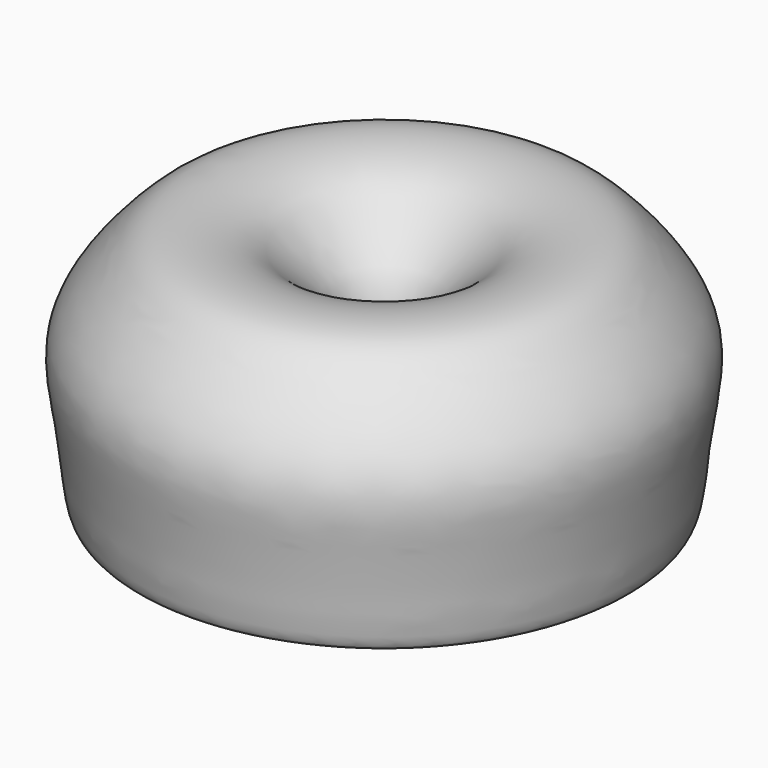
from build123d import *


with BuildPart() as f2:
    # F1 (on Front) → F2 (revolve)
    with BuildSketch(Plane.XZ):
        with BuildLine():
            add(Edge.make_bspline(
                [(-13.0814844742, 0), (-13.6835852244, 3.6079190474), (-12.6090819688, 8.9287363322), (-15.2886573343, 28.5777612437), (-21.4874861751, 40.5932954658), (-32.2631134505, 49.7973738872), (-45.8505551499, 64.1301383239), (-77.0771298512, 67.1452082651), (-91.6988326301, 55.3417403427), (-116.9272740617, 25.6791089861), (-107.5653253757, -5.7051915219), (-105.8478493439, -48.6112628707), (-93.9363940411, -27.667483999), (-78.4468297582, -24.6070328735), (-78.2238864072, -50.3892041082), (-52.9947204031, -40.1585933688), (-67.553885268, -14.9990645183), (-35.7218021402, -4.3106288793), (-28.8624506742, -28.9706921161), (-31.8504901985, -59.4088601671), (-5.6375294619, -42.6995926093), (-5.1510468689, -23.7179957101), (-12.1127518323, -5.8048573265), (-13.0814844742, 0)],
                knots=[0, 0, 0, 0, 0.0326629146, 0.0791148896, 0.1185540711, 0.1578123355, 0.2050908364, 0.2620271323, 0.30824264, 0.3710299275, 0.435144591, 0.4932715447, 0.5327653885, 0.5685824922, 0.6134358156, 0.6549886001, 0.7040965092, 0.7531600911, 0.8033613686, 0.8535594575, 0.9004673211, 0.9474479453, 1, 1, 1, 1], degree=3))
        make_face()
    revolve(axis=Axis((0, 0, 0), (0, 0, 1)))


solid = f2.part
